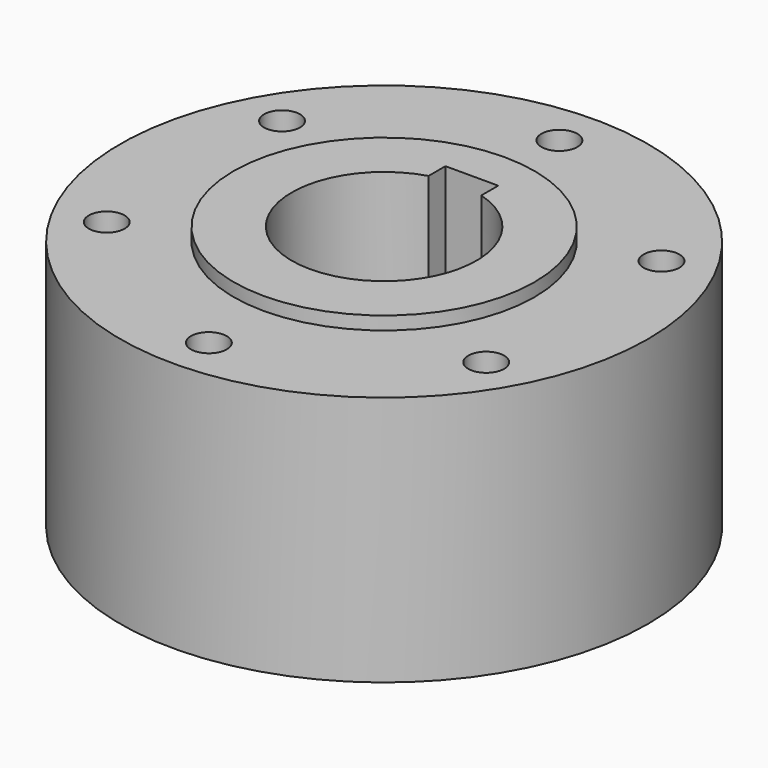
from build123d import *

# Parameters (mm, degrees)
F0_R           = 50
F0_R_2         = 28.5
F1_DEPTH       = 47.5
F2_DEPTH       = 47.5
F3_D           = 6.8
F3_DEPTH       = 23.75
F3_CBORE_D     = 6.8
F3_CBORE_DEPTH = 1
F3_TIP         = 2.0429261047
F4_DEPTH       = 2.5


with BuildPart() as f1:
    # F0 (on Top) → F1 (new body)
    with BuildSketch(Plane.XY):
        Circle(F0_R)
        with BuildLine():
            ThreePointArc((37.7707857076, 17.193537944), (40.5569821786, 8.7966582614), (41.5, 0))
            ThreePointArc((41.5, 0), (40.5569821786, -8.7966582614), (37.7707857076, -17.193537944))
            ThreePointArc((37.7707857076, -17.193537944), (39.3549426741, -18.6670844715), (39.9400542571, -20.75))
            ThreePointArc((39.9400542571, -20.75), (37.8559766131, -24.2613019702), (33.7754334942, -24.1136909717))
            ThreePointArc((33.7754334942, -24.1136909717), (20.75, -35.9400542571), (3.9953522134, -41.3072289157))
            ThreePointArc((3.9953522134, -41.3072289157), (3.9988378845, -41.4035864469), (4, -41.5))
            ThreePointArc((4, -41.5), (-0.0964135531, -45.4988378845), (-3.9953522134, -41.3072289157))
            ThreePointArc((-3.9953522134, -41.3072289157), (-20.75, -35.9400542571), (-33.7754334942, -24.1136909717))
            ThreePointArc((-33.7754334942, -24.1136909717), (-39.4041558722, -22.75), (-37.7707857076, -17.193537944))
            ThreePointArc((-37.7707857076, -17.193537944), (-41.5, 0), (-37.7707857076, 17.193537944))
            ThreePointArc((-37.7707857076, 17.193537944), (-39.4041558722, 22.75), (-33.7754334942, 24.1136909717))
            ThreePointArc((-33.7754334942, 24.1136909717), (-20.75, 35.9400542571), (-3.9953522134, 41.3072289157))
            ThreePointArc((-3.9953522134, 41.3072289157), (-0.0964135531, 45.4988378845), (4, 41.5))
            ThreePointArc((4, 41.5), (3.9988378845, 41.4035864469), (3.9953522134, 41.3072289157))
            ThreePointArc((3.9953522134, 41.3072289157), (20.75, 35.9400542571), (33.7754334942, 24.1136909717))
            ThreePointArc((33.7754334942, 24.1136909717), (37.8559766131, 24.2613019702), (39.9400542571, 20.75))
            ThreePointArc((39.9400542571, 20.75), (39.3549426741, 18.6670844715), (37.7707857076, 17.193537944))
        make_face(mode=Mode.SUBTRACT)
        with BuildLine():
            ThreePointArc((37.7707857076, -17.193537944), (40.5569821786, -8.7966582614), (41.5, 0))
            ThreePointArc((41.5, 0), (40.5569821786, 8.7966582614), (37.7707857076, 17.193537944))
            ThreePointArc((37.7707857076, 17.193537944), (32.4759526419, 18.75), (33.7754334942, 24.1136909717))
            ThreePointArc((33.7754334942, 24.1136909717), (20.75, 35.9400542571), (3.9953522134, 41.3072289157))
            ThreePointArc((3.9953522134, 41.3072289157), (0, 37.5), (-3.9953522134, 41.3072289157))
            ThreePointArc((-3.9953522134, 41.3072289157), (-20.75, 35.9400542571), (-33.7754334942, 24.1136909717))
            ThreePointArc((-33.7754334942, 24.1136909717), (-32.4287522869, 22.665922356), (-31.9400542571, 20.75))
            ThreePointArc((-31.9400542571, 20.75), (-33.8571387285, 17.3351115829), (-37.7707857076, 17.193537944))
            ThreePointArc((-37.7707857076, 17.193537944), (-41.5, 0), (-37.7707857076, -17.193537944))
            ThreePointArc((-37.7707857076, -17.193537944), (-33.8571387285, -17.3351115829), (-31.9400542571, -20.75))
            ThreePointArc((-31.9400542571, -20.75), (-32.4287522869, -22.665922356), (-33.7754334942, -24.1136909717))
            ThreePointArc((-33.7754334942, -24.1136909717), (-20.75, -35.9400542571), (-3.9953522134, -41.3072289157))
            ThreePointArc((-3.9953522134, -41.3072289157), (0, -37.5), (3.9953522134, -41.3072289157))
            ThreePointArc((3.9953522134, -41.3072289157), (20.75, -35.9400542571), (33.7754334942, -24.1136909717))
            ThreePointArc((33.7754334942, -24.1136909717), (32.4759526419, -18.75), (37.7707857076, -17.193537944))
        make_face()
        Circle(F0_R_2, mode=Mode.SUBTRACT)
        with BuildLine():
            ThreePointArc((-37.7707857076, 17.193537944), (-35.9400542571, 20.75), (-33.7754334942, 24.1136909717))
            ThreePointArc((-33.7754334942, 24.1136909717), (-39.4041558722, 22.75), (-37.7707857076, 17.193537944))
        make_face()
        with BuildLine():
            ThreePointArc((-37.7707857076, -17.193537944), (-39.4041558722, -22.75), (-33.7754334942, -24.1136909717))
            ThreePointArc((-33.7754334942, -24.1136909717), (-35.9400542571, -20.75), (-37.7707857076, -17.193537944))
        make_face()
        with BuildLine():
            ThreePointArc((4, -41.5), (3.9988378845, -41.4035864469), (3.9953522134, -41.3072289157))
            ThreePointArc((3.9953522134, -41.3072289157), (0, -41.5), (-3.9953522134, -41.3072289157))
            ThreePointArc((-3.9953522134, -41.3072289157), (-0.0964135531, -45.4988378845), (4, -41.5))
        make_face()
        with BuildLine():
            ThreePointArc((39.9400542571, -20.75), (39.3549426741, -18.6670844715), (37.7707857076, -17.193537944))
            ThreePointArc((37.7707857076, -17.193537944), (35.9400542571, -20.75), (33.7754334942, -24.1136909717))
            ThreePointArc((33.7754334942, -24.1136909717), (37.8559766131, -24.2613019702), (39.9400542571, -20.75))
        make_face()
        with BuildLine():
            ThreePointArc((33.7754334942, 24.1136909717), (35.9400542571, 20.75), (37.7707857076, 17.193537944))
            ThreePointArc((37.7707857076, 17.193537944), (39.3549426741, 18.6670844715), (39.9400542571, 20.75))
            ThreePointArc((39.9400542571, 20.75), (37.8559766131, 24.2613019702), (33.7754334942, 24.1136909717))
        make_face()
        with BuildLine():
            ThreePointArc((-3.9953522134, 41.3072289157), (0, 41.5), (3.9953522134, 41.3072289157))
            ThreePointArc((3.9953522134, 41.3072289157), (3.9988378845, 41.4035864469), (4, 41.5))
            ThreePointArc((4, 41.5), (-0.0964135531, 45.4988378845), (-3.9953522134, 41.3072289157))
        make_face()
        with BuildLine():
            ThreePointArc((-31.9400542571, 20.75), (-32.4287522869, 22.665922356), (-33.7754334942, 24.1136909717))
            ThreePointArc((-33.7754334942, 24.1136909717), (-35.9400542571, 20.75), (-37.7707857076, 17.193537944))
            ThreePointArc((-37.7707857076, 17.193537944), (-33.8571387285, 17.3351115829), (-31.9400542571, 20.75))
        make_face()
        with BuildLine():
            ThreePointArc((-37.7707857076, -17.193537944), (-35.9400542571, -20.75), (-33.7754334942, -24.1136909717))
            ThreePointArc((-33.7754334942, -24.1136909717), (-32.4287522869, -22.665922356), (-31.9400542571, -20.75))
            ThreePointArc((-31.9400542571, -20.75), (-33.8571387285, -17.3351115829), (-37.7707857076, -17.193537944))
        make_face()
        with BuildLine():
            ThreePointArc((-3.9953522134, -41.3072289157), (0, -41.5), (3.9953522134, -41.3072289157))
            ThreePointArc((3.9953522134, -41.3072289157), (0, -37.5), (-3.9953522134, -41.3072289157))
        make_face()
        with BuildLine():
            ThreePointArc((33.7754334942, -24.1136909717), (35.9400542571, -20.75), (37.7707857076, -17.193537944))
            ThreePointArc((37.7707857076, -17.193537944), (32.4759526419, -18.75), (33.7754334942, -24.1136909717))
        make_face()
        with BuildLine():
            ThreePointArc((33.7754334942, 24.1136909717), (32.4759526419, 18.75), (37.7707857076, 17.193537944))
            ThreePointArc((37.7707857076, 17.193537944), (35.9400542571, 20.75), (33.7754334942, 24.1136909717))
        make_face()
        with BuildLine():
            ThreePointArc((-3.9953522134, 41.3072289157), (0, 37.5), (3.9953522134, 41.3072289157))
            ThreePointArc((3.9953522134, 41.3072289157), (0, 41.5), (-3.9953522134, 41.3072289157))
        make_face()
    extrude(amount=-F1_DEPTH)

    # F0 (on Top) → F2 (join)
    with BuildSketch(Plane.XY):
        Circle(F0_R_2)
        with BuildLine():
            ThreePointArc((5, 16.7705098312), (0, -17.5), (-5, 16.7705098312))
            Line((-5, 16.7705098312), (-5, 20.7705098312))
            Line((-5, 20.7705098312), (5, 20.7705098312))
            Line((5, 20.7705098312), (5, 16.7705098312))
        make_face(mode=Mode.SUBTRACT)
    extrude(amount=-F2_DEPTH)

    # F3
    with Locations(Plane.XY):
        with Locations((35.9400542571, -20.75), (35.9400542571, 20.75), (0, 41.5), (-35.9400542571, 20.75), (-35.9400542571, -20.75), (0, -41.5)):
            CounterBoreHole(F3_D / 2, F3_CBORE_D / 2, F3_CBORE_DEPTH, depth=F3_DEPTH)
            with Locations((0, 0, -(F3_DEPTH + F3_TIP / 2))):  # 118° drill point
                Cone(0, F3_D / 2, F3_TIP, mode=Mode.SUBTRACT)

    # F0 (on Top) → F4 (join)
    with BuildSketch(Plane.XY):
        Circle(F0_R_2)
        with BuildLine():
            ThreePointArc((5, 16.7705098312), (0, -17.5), (-5, 16.7705098312))
            Line((-5, 16.7705098312), (-5, 20.7705098312))
            Line((-5, 20.7705098312), (5, 20.7705098312))
            Line((5, 20.7705098312), (5, 16.7705098312))
        make_face(mode=Mode.SUBTRACT)
    extrude(amount=F4_DEPTH)


solid = f1.part
